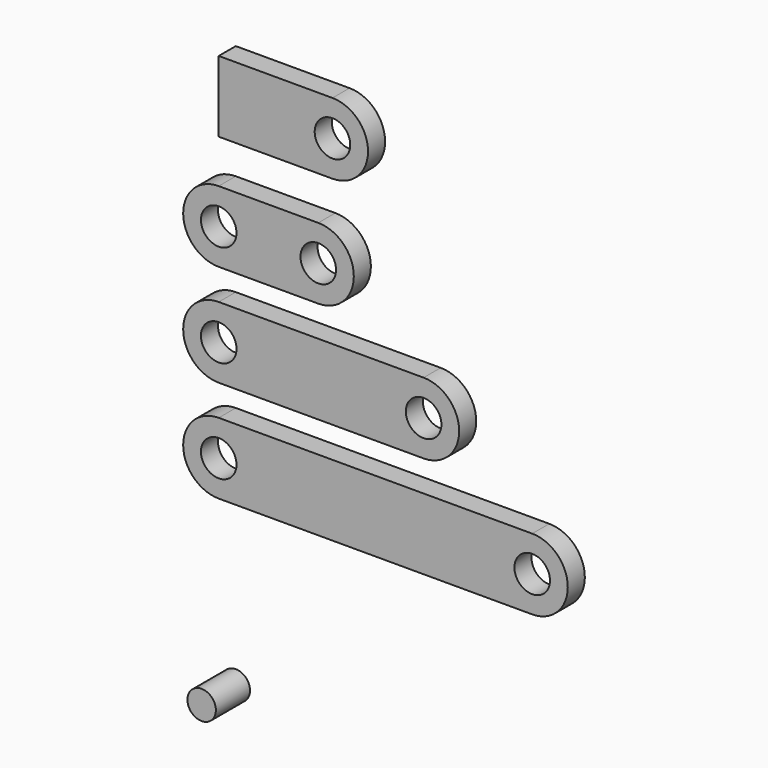
from build123d import *

# Parameters (mm, degrees)
F0_R     = 12.5
F1_DEPTH = 15
F2_R     = 12.5
F3_DEPTH = 15
F4_R     = 12.5
F5_DEPTH = 15
F6_R     = 12.5
F7_DEPTH = 15
F8_R     = 10
F9_DEPTH = 30


with BuildPart() as f1:
    # F0 (on Front) → F1 (new body)
    with BuildSketch(Plane.XZ):
        with BuildLine():
            Line((70, 25), (0, 25))
            ThreePointArc((0, 25), (-25, 0), (0, -25))
            Line((0, -25), (70, -25))
            ThreePointArc((70, -25), (95, 0), (70, 25))
        make_face()
        Circle(F0_R, mode=Mode.SUBTRACT)
        with Locations((70, 0)):
            Circle(F0_R, mode=Mode.SUBTRACT)
    extrude(amount=F1_DEPTH)


with BuildPart() as f3:
    # F2 (on Front) → F3 (new body)
    with BuildSketch(Plane.XZ):
        with BuildLine():
            Line((80, 105.585515), (0, 105.585515))
            Line((0, 105.585515), (0, 55.585515))
            Line((0, 55.585515), (80, 55.585515))
            ThreePointArc((80, 55.585515), (105, 80.585515), (80, 105.585515))
        make_face()
        with Locations((80, 80.585515)):
            Circle(F2_R, mode=Mode.SUBTRACT)
    extrude(amount=F3_DEPTH)


with BuildPart() as f5:
    # F4 (on Front) → F5 (new body)
    with BuildSketch(Plane.XZ):
        with BuildLine():
            Line((72.043687, -46.737686), (0, -46.737686))
            ThreePointArc((0, -46.737686), (-25, -71.737686), (0, -96.737686))
            Line((0, -96.737686), (72.043687, -96.737686))
            Line((72.043687, -96.737686), (144.087374, -96.737686))
            ThreePointArc((144.087374, -96.737686), (169.087374, -71.737686), (144.087374, -46.737686))
            Line((144.087374, -46.737686), (72.043687, -46.737686))
        make_face()
        with Locations((0, -71.737686)):
            Circle(F4_R, mode=Mode.SUBTRACT)
        with Locations((144.087374, -71.737686)):
            Circle(F4_R, mode=Mode.SUBTRACT)
    extrude(amount=F5_DEPTH)


with BuildPart() as f7:
    # F6 (on Front) → F7 (new body)
    with BuildSketch(Plane.XZ):
        with BuildLine():
            Line((110.234387, -118.459767), (0, -118.459767))
            ThreePointArc((0, -118.459767), (-25, -143.459767), (0, -168.459767))
            Line((0, -168.459767), (110.234387, -168.459767))
            Line((110.234387, -168.459767), (220.468774, -168.459767))
            ThreePointArc((220.468774, -168.459767), (245.468774, -143.459767), (220.468774, -118.459767))
            Line((220.468774, -118.459767), (110.234387, -118.459767))
        make_face()
        with Locations((0, -143.459767)):
            Circle(F6_R, mode=Mode.SUBTRACT)
        with Locations((220.468774, -143.459767)):
            Circle(F6_R, mode=Mode.SUBTRACT)
    extrude(amount=F7_DEPTH)


with BuildPart() as f9:
    # F8 (on Front) → F9 (new body)
    with BuildSketch(Plane.XZ):
        with Locations((0, -290.122747)):
            Circle(F8_R)
    extrude(amount=F9_DEPTH)


solid = Compound([f1.part, f3.part, f5.part, f7.part, f9.part])
